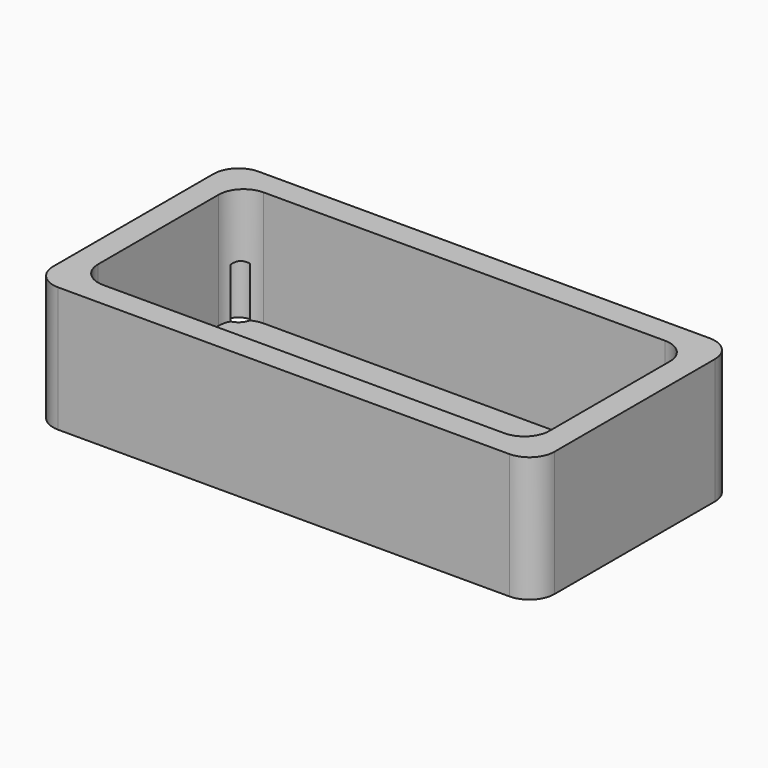
from build123d import *

# Parameters (mm, degrees)
F0_W     = 100
F0_H     = 50
F1_DEPTH = 25
F2_DEPTH = 2
F3_R     = 5
F4_D     = 5.5
F4_DEPTH = 12
F4_TIP   = 1.6523667023


with BuildPart() as f1:
    # F0 (on Top) → F1 (new body)
    with BuildSketch(Plane.XY):
        with Locations((6.475339179, -8.8739781123)):
            Rectangle(F0_W, F0_H)
        with BuildLine():
            ThreePointArc((-38.524660821, 6.1260218877), (-37.0601947269, 9.6615557936), (-33.524660821, 11.1260218877))
            Line((-33.524660821, 11.1260218877), (46.475339179, 11.1260218877))
            ThreePointArc((46.475339179, 11.1260218877), (50.010873085, 9.6615557936), (51.475339179, 6.1260218877))
            Line((51.475339179, 6.1260218877), (51.475339179, -23.8739781123))
            ThreePointArc((51.475339179, -23.8739781123), (50.010873085, -27.4095120182), (46.475339179, -28.8739781123))
            Line((46.475339179, -28.8739781123), (-33.524660821, -28.8739781123))
            ThreePointArc((-33.524660821, -28.8739781123), (-37.0601947269, -27.4095120182), (-38.524660821, -23.8739781123))
            Line((-38.524660821, -23.8739781123), (-38.524660821, 6.1260218877))
        make_face(mode=Mode.SUBTRACT)
    extrude(amount=F1_DEPTH)

    # F0 (on Top) → F2 (join)
    with BuildSketch(Plane.XY):
        with Locations((6.475339179, -8.8739781123)):
            Rectangle(F0_W, F0_H)
        with BuildLine():
            ThreePointArc((-38.524660821, 6.1260218877), (-37.0601947269, 9.6615557936), (-33.524660821, 11.1260218877))
            Line((-33.524660821, 11.1260218877), (46.475339179, 11.1260218877))
            ThreePointArc((46.475339179, 11.1260218877), (50.010873085, 9.6615557936), (51.475339179, 6.1260218877))
            Line((51.475339179, 6.1260218877), (51.475339179, -23.8739781123))
            ThreePointArc((51.475339179, -23.8739781123), (50.010873085, -27.4095120182), (46.475339179, -28.8739781123))
            Line((46.475339179, -28.8739781123), (-33.524660821, -28.8739781123))
            ThreePointArc((-33.524660821, -28.8739781123), (-37.0601947269, -27.4095120182), (-38.524660821, -23.8739781123))
            Line((-38.524660821, -23.8739781123), (-38.524660821, 6.1260218877))
        make_face(mode=Mode.SUBTRACT)
        with BuildLine():
            Line((46.475339179, 11.1260218877), (-33.524660821, 11.1260218877))
            ThreePointArc((-33.524660821, 11.1260218877), (-37.0601947269, 9.6615557936), (-38.524660821, 6.1260218877))
            Line((-38.524660821, 6.1260218877), (-38.524660821, -23.8739781123))
            ThreePointArc((-38.524660821, -23.8739781123), (-37.0601947269, -27.4095120182), (-33.524660821, -28.8739781123))
            Line((-33.524660821, -28.8739781123), (46.475339179, -28.8739781123))
            ThreePointArc((46.475339179, -28.8739781123), (50.010873085, -27.4095120182), (51.475339179, -23.8739781123))
            Line((51.475339179, -23.8739781123), (51.475339179, 6.1260218877))
            ThreePointArc((51.475339179, 6.1260218877), (50.010873085, 9.6615557936), (46.475339179, 11.1260218877))
        make_face()
    extrude(amount=F2_DEPTH)

    # F3
    f3_edges = [f1.edges().sort_by_distance(p)[0] for p in [
        (-43.524661, -33.873978, 12.5),
        (56.475339, -33.873978, 12.5),
        (56.475339, 16.126022, 12.5),
        (-43.524661, 16.126022, 12.5),
    ]]
    fillet(f3_edges, radius=F3_R)

    # F4
    with Locations(Plane(origin=(0, 0, 0), x_dir=(1, 0, 0), z_dir=(0, 0, -1))):
        with Locations((51.475339179, -11.1260218877), (51.475339179, 28.8739781123), (-38.524660821, 28.8739781123), (-38.524660821, -11.1260218877)):
            Hole(F4_D / 2, depth=F4_DEPTH)
            with Locations((0, 0, -(F4_DEPTH + F4_TIP / 2))):  # 118° drill point
                Cone(0, F4_D / 2, F4_TIP, mode=Mode.SUBTRACT)


solid = f1.part
